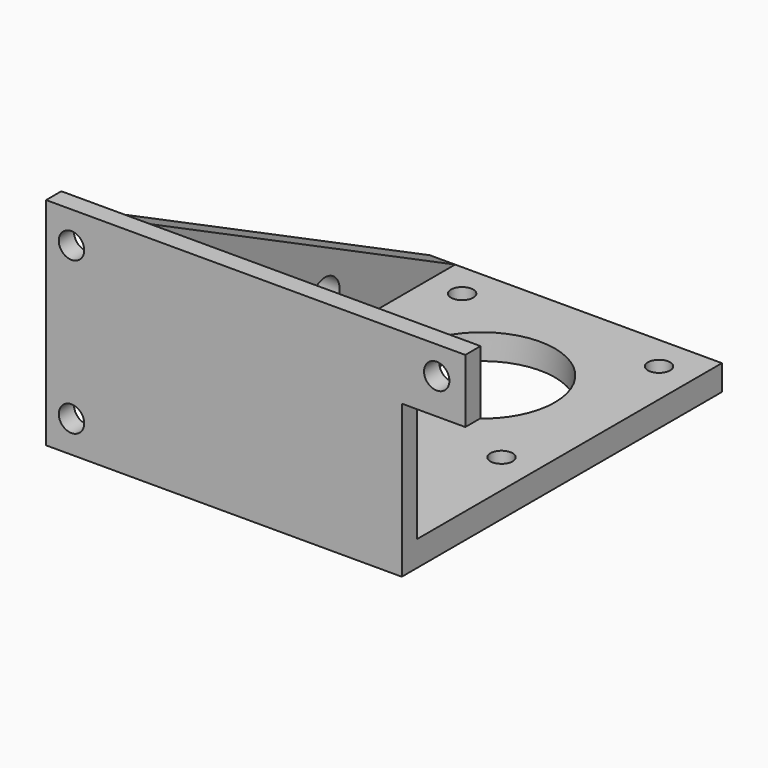
from build123d import *

# Parameters (mm, degrees)
F0_W      = 42
F0_H      = 63
F0_R      = 1.75
F0_R_2    = 11.5
F1_DEPTH  = 4
F2_W      = 42
F2_H      = 3
F3_DEPTH  = 30
F4_R      = 2.876713
F4_R_2    = 4.342344
F4_R_3    = 6.646556
F5_DEPTH  = 4
F6_W      = 3
F6_H      = 10
F7_DEPTH  = 10
F8_R      = 2
F9_DEPTH  = 25
F10_W     = 3
F10_H     = 34
F11_DEPTH = 10
F12_R     = 2
F13_DEPTH = 25


with BuildPart() as f1:
    # F0 (on Top) → F1 (new body)
    with BuildSketch(Plane.XY):
        Rectangle(F0_W, F0_H)
        with Locations((-15.5, -5)):
            Circle(F0_R, mode=Mode.SUBTRACT)
        with Locations((15.5, -5)):
            Circle(F0_R, mode=Mode.SUBTRACT)
        with Locations((-15.5, 26)):
            Circle(F0_R, mode=Mode.SUBTRACT)
        with Locations((0, 10.5)):
            Circle(F0_R_2, mode=Mode.SUBTRACT)
        with Locations((15.5, 26)):
            Circle(F0_R, mode=Mode.SUBTRACT)
    extrude(amount=F1_DEPTH)

    # F2 (on face) → F3 (join)
    with BuildSketch(Plane.XY.offset(4)):
        with Locations((0, -30)):
            Rectangle(F2_W, F2_H)
    extrude(amount=F3_DEPTH)

    # F4 (on face) → F5 (join)
    with BuildSketch(Plane(origin=(-21, 0, 0), x_dir=(0, -1, 0), z_dir=(-1, 0, 0))):
        Polygon((28.5, 34), (-31.5, 4), (28.5, 4), align=None)
        with Locations((-5.90477, 9.762893)):
            Circle(F4_R, mode=Mode.SUBTRACT)
        with Locations((4.623126, 12.472619)):
            Circle(F4_R_2, mode=Mode.SUBTRACT)
        with Locations((19.102728, 16.427787)):
            Circle(F4_R_3, mode=Mode.SUBTRACT)
        Polygon((28.5, 4), (-31.5, 4), (-31.5, 0), (31.5, 0), (31.5, 34), (28.5, 34), align=None)
    extrude(amount=F5_DEPTH)

    # F6 (on face) → F7 (join)
    with BuildSketch(Plane.YZ.offset(21)):
        with Locations((-30, 29)):
            Rectangle(F6_W, F6_H)
    extrude(amount=F7_DEPTH)

    # F8 (on face) → F9 (cut)
    with BuildSketch(Plane(origin=(0, -28.5, 0), x_dir=(-1, 0, 0), z_dir=(0, 1, 0))):
        with Locations((-26.502214, 29.595299)):
            Circle(F8_R)
    extrude(amount=-F9_DEPTH, mode=Mode.SUBTRACT)

    # F10 (on face) → F11 (join)
    with BuildSketch(Plane(origin=(-25, 0, 0), x_dir=(0, -1, 0), z_dir=(-1, 0, 0))):
        with Locations((30, 17)):
            Rectangle(F10_W, F10_H)
    extrude(amount=F11_DEPTH)

    # F12 (on face) → F13 (cut)
    with BuildSketch(Plane.XZ.offset(31.5)):
        with Locations((-31, 29)):
            Circle(F12_R)
        with Locations((-31, 5)):
            Circle(F12_R)
    extrude(amount=-F13_DEPTH, mode=Mode.SUBTRACT)


solid = f1.part
